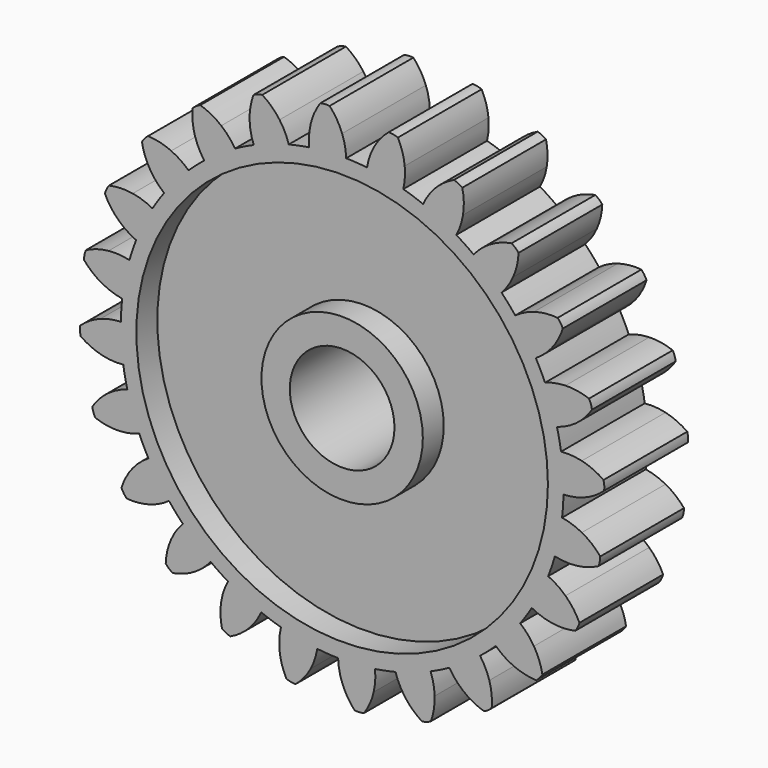
from build123d import *

# Parameters (mm, degrees)
F0_R     = 19.6623404902
F1_DEPTH = 5
F2_COUNT = 24
F3_DEPTH = 5
F0_R_2   = 7.7099365296
F0_R_3   = 5
F4_DEPTH = 2.5


with BuildPart() as f1:
    # F0 (on Front) → F1 (new body, symmetric)
    with BuildSketch(Plane.XZ):
        with BuildLine():
            ThreePointArc((-3.1435011452, 20.9150878686), (-13.7992291593, -16.0282180735), (21.15, 0))
            ThreePointArc((21.15, 0), (15.0913876602, 14.8179795684), (0.3866412777, 21.1464656272))
            ThreePointArc((0.3866412777, 21.1464656272), (-1.3832761832, 21.1047162265), (-3.1435011452, 20.9150878686))
        make_face()
        Circle(F0_R, mode=Mode.SUBTRACT)
        with BuildLine():
            ThreePointArc((-3.1435011452, 20.9150878686), (-1.3832761832, 21.1047162265), (0.3866412777, 21.1464656272))
            ThreePointArc((0.3866412777, 21.1464656272), (0.2747260065, 22.1393444704), (0, 23.1))
            ThreePointArc((0, 23.1), (-0.5046972454, 24.1248310149), (-1.1955209594, 25.0346444654))
            ThreePointArc((-1.1955209594, 25.0346444654), (-1.6416991876, 25.0474893622), (-2.0823837038, 24.9765164101))
            ThreePointArc((-2.0823837038, 24.9765164101), (-2.6485428398, 23.9843159509), (-3.0151550403, 22.9023762977))
            ThreePointArc((-3.0151550403, 22.9023762977), (-3.1621400194, 21.9140803698), (-3.1435011452, 20.9150878686))
        make_face()
    extrude(amount=F1_DEPTH, both=True)

    # F2: F1 ×24 about axis
    f2_axis = Axis((0, 0, 0), (0, -1, 0))


with BuildPart() as f1_1:
    add(f1.part)
    for i in range(1, F2_COUNT):
        add(f1.part.rotate(f2_axis, i * 360 / F2_COUNT))

    # F0 (on Front) → F3 (join, symmetric)
    with BuildSketch(Plane.XZ):
        with BuildLine():
            ThreePointArc((-3.1435011452, 20.9150878686), (-13.7992291593, -16.0282180735), (21.15, 0))
            ThreePointArc((21.15, 0), (15.0913876602, 14.8179795684), (0.3866412777, 21.1464656272))
            ThreePointArc((0.3866412777, 21.1464656272), (-1.3832761832, 21.1047162265), (-3.1435011452, 20.9150878686))
        make_face()
        Circle(F0_R, mode=Mode.SUBTRACT)
        with BuildLine():
            ThreePointArc((-3.1435011452, 20.9150878686), (-1.3832761832, 21.1047162265), (0.3866412777, 21.1464656272))
            ThreePointArc((0.3866412777, 21.1464656272), (0.2747260065, 22.1393444704), (0, 23.1))
            ThreePointArc((0, 23.1), (-0.5046972454, 24.1248310149), (-1.1955209594, 25.0346444654))
            ThreePointArc((-1.1955209594, 25.0346444654), (-1.6416991876, 25.0474893622), (-2.0823837038, 24.9765164101))
            ThreePointArc((-2.0823837038, 24.9765164101), (-2.6485428398, 23.9843159509), (-3.0151550403, 22.9023762977))
            ThreePointArc((-3.0151550403, 22.9023762977), (-3.1621400194, 21.9140803698), (-3.1435011452, 20.9150878686))
        make_face()
    extrude(amount=F3_DEPTH, both=True)



with BuildPart() as f3:
    # F0 (on Front) → F3, piece 2 (new body, symmetric)
    with BuildSketch(Plane.XZ):
        Circle(F0_R_2)
        Circle(F0_R_3, mode=Mode.SUBTRACT)
    extrude(amount=F3_DEPTH, both=True)


with BuildPart() as f1_2:
    add(f1_1.part)

    add(f3.part)  # F4 merges F3
    # F0 (on Front) → F4 (join, symmetric)
    with BuildSketch(Plane.XZ):
        Circle(F0_R)
        Circle(F0_R_2, mode=Mode.SUBTRACT)
    extrude(amount=F4_DEPTH, both=True)


solid = f1_2.part
